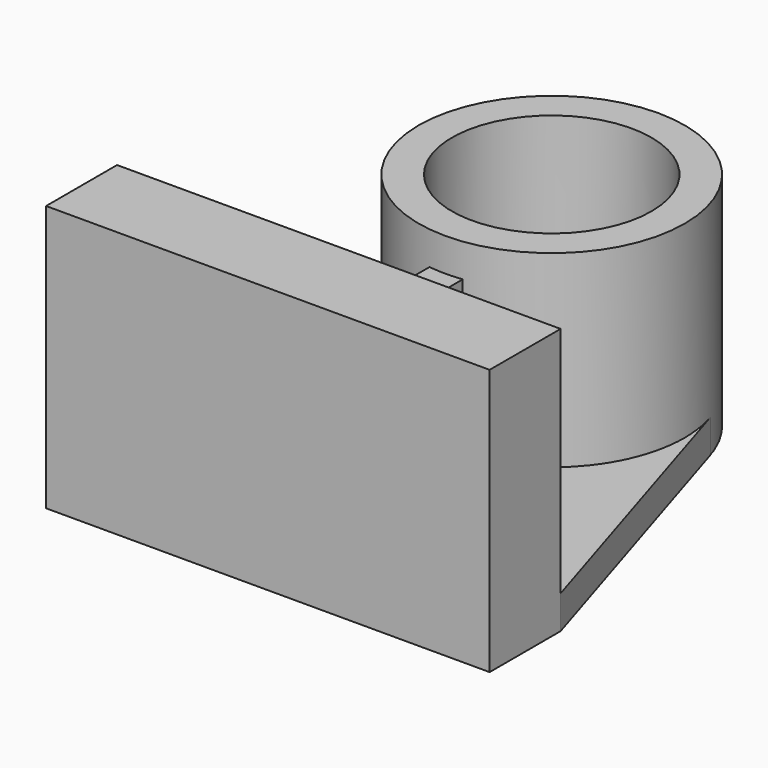
from build123d import *

# Parameters (mm, degrees)
F0_W     = 254
F0_H     = 50.8
F1_DEPTH = 152.4
F2_R     = 76.2
F2_R_2   = 57.15
F3_DEPTH = 127
F5_DEPTH = 19.05
F7_DEPTH = 88.9


with BuildPart() as f1:
    # F0 (on Top) → F1 (new body)
    with BuildSketch(Plane.XY):
        Rectangle(F0_W, F0_H)
    extrude(amount=F1_DEPTH)


with BuildPart() as f3:
    # F2 (on Top) → F3 (new body)
    with BuildSketch(Plane.XY):
        with Locations((0, 177.8)):
            Circle(F2_R)
        with Locations((0, 177.8)):
            Circle(F2_R_2, mode=Mode.SUBTRACT)
    extrude(amount=F3_DEPTH)


with BuildPart() as f5:
    # F4 (on Top) → F5 (new body)
    with BuildSketch(Plane.XY):
        with BuildLine():
            Line((-72.78551, 200.354591), (-127, 25.4))
            Line((-127, 25.4), (127, 25.4))
            Line((127, 25.4), (72.78551, 200.354591))
            ThreePointArc((72.78551, 200.354591), (0, 101.6), (-72.78551, 200.354591))
        make_face()
    extrude(amount=F5_DEPTH)


with BuildPart() as f7:
    # F6 (on face) → F7 (new body)
    with BuildSketch(Plane.XY.offset(19.05)):
        with BuildLine():
            Line((9.525, 25.4), (9.525, 102.197656))
            ThreePointArc((9.525, 102.197656), (0, 101.6), (-9.525, 102.197656))
            Line((-9.525, 102.197656), (-9.525, 25.4))
            Line((-9.525, 25.4), (9.525, 25.4))
        make_face()
    extrude(amount=F7_DEPTH)


solid = Compound([f1.part, f3.part, f5.part, f7.part])
